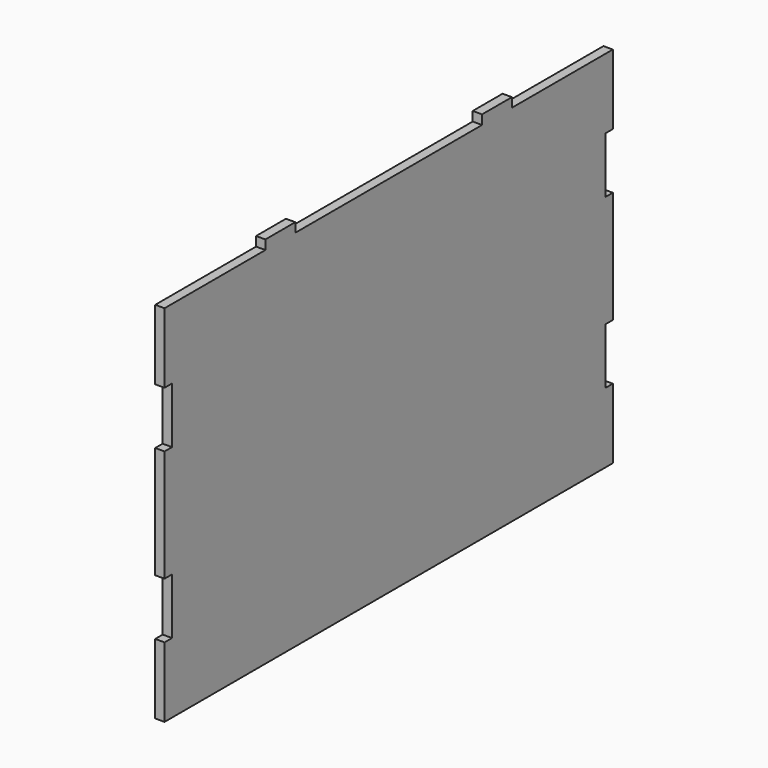
from build123d import *

# Parameters (mm, degrees)
F0_W     = 152.4
F0_H     = 101.6
F1_DEPTH = 2.54
F2_W     = 34.29
F2_H     = 2.54
F2_W_2   = 63.5
F3_DEPTH = 25.4
F4_W     = 2.54
F4_H     = 15.24
F5_DEPTH = 25.4
F6_W     = 2.54
F6_H     = 15.24
F7_DEPTH = 25.4


with BuildPart() as f1:
    # F0 (on Right) → F1 (new body)
    with BuildSketch(Plane.YZ):
        Rectangle(F0_W, F0_H)
    extrude(amount=F1_DEPTH)

    # F2 (on face) → F3 (cut)
    with BuildSketch(Plane.YZ.offset(2.54)):
        with Locations((-59.055, 49.53)):
            Rectangle(F2_W, F2_H)
        with Locations((0, 49.53)):
            Rectangle(F2_W_2, F2_H)
        with Locations((59.055, 49.53)):
            Rectangle(F2_W, F2_H)
    extrude(amount=-F3_DEPTH, mode=Mode.SUBTRACT)

    # F4 (on face) → F5 (cut)
    with BuildSketch(Plane.YZ.offset(2.54)):
        with Locations((74.93, 21.59)):
            Rectangle(F4_W, F4_H)
        with Locations((74.93, -24.13)):
            Rectangle(F4_W, F4_H)
    extrude(amount=-F5_DEPTH, mode=Mode.SUBTRACT)

    # F6 (on face) → F7 (cut)
    with BuildSketch(Plane.YZ.offset(2.54)):
        with Locations((-74.93, 21.59)):
            Rectangle(F6_W, F6_H)
        with Locations((-74.93, -24.13)):
            Rectangle(F6_W, F6_H)
    extrude(amount=-F7_DEPTH, mode=Mode.SUBTRACT)


solid = f1.part
